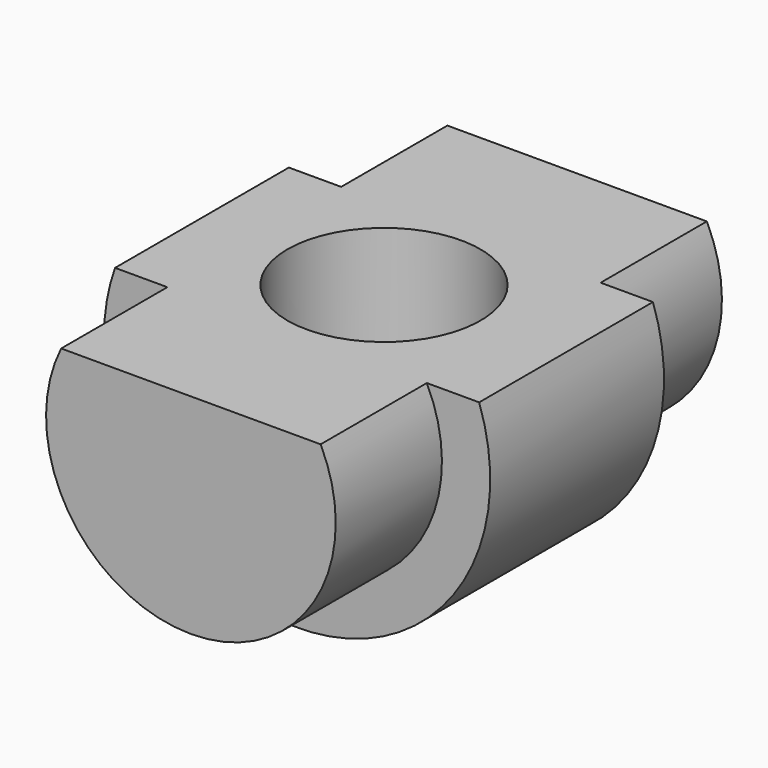
from build123d import *

# Parameters (mm, degrees)
F1_DEPTH = 9
F3_D     = 8
F5_DEPTH = 5.5
F7_DEPTH = 5.5


with BuildPart() as f1:
    # F0 (on Front) → F1 (new body)
    with BuildSketch(Plane.XZ):
        with BuildLine():
            ThreePointArc((-7.542472, 2.666667), (-7.884788, 1.352816), (-8, 0))
            ThreePointArc((-8, 0), (1.352816, -7.884788), (7.542472, 2.666667))
            Line((7.542472, 2.666667), (-7.542472, 2.666667))
        make_face()
    extrude(amount=F1_DEPTH)

    # F3 (through all)
    with Locations(Plane.XY.offset(2.666667)):
        with Locations((0, -4.5)):
            Hole(F3_D / 2)

    # F4 (on face) → F5 (join)
    with BuildSketch(Plane.XZ.offset(9)):
        with BuildLine():
            Line((5.374838, 2.666667), (-5.374838, 2.666667))
            ThreePointArc((-5.374838, 2.666667), (0, -6), (5.374838, 2.666667))
        make_face()
    extrude(amount=F5_DEPTH)

    # F6 (on face) → F7 (join)
    with BuildSketch(Plane(origin=(0, 0, 0), x_dir=(-1, 0, 0), z_dir=(0, 1, 0))):
        with BuildLine():
            Line((5.374838, 2.666667), (-5.374838, 2.666667))
            ThreePointArc((-5.374838, 2.666667), (0, -6), (5.374838, 2.666667))
        make_face()
    extrude(amount=F7_DEPTH)


solid = f1.part
